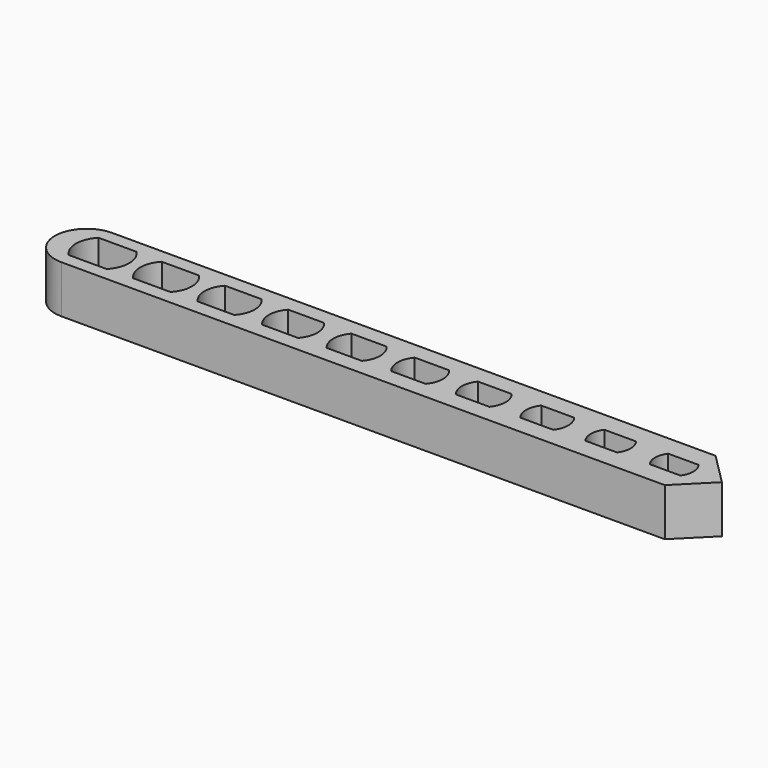
from build123d import *

# Parameters (mm, degrees)
F1_DEPTH = 6


with BuildPart() as f1:
    # F0 (on Top) → F1 (new body)
    with BuildSketch(Plane.XY):
        with BuildLine():
            Line((38, 4), (-38, 4))
            ThreePointArc((-38, 4), (-42, 0), (-38, -4))
            Line((-38, -4), (38, -4))
            Line((38, -4), (42, 0))
            Line((42, 0), (38, 4))
        make_face()
        with BuildLine():
            ThreePointArc((-33.612533, 2.35), (-32.899958, 1.269741), (-32.65, 0))
            ThreePointArc((-32.65, 0), (-32.899958, -1.269741), (-33.612533, -2.35))
            ThreePointArc((-33.612533, -2.35), (-36, -3.35), (-38.387467, -2.35))
            ThreePointArc((-38.387467, -2.35), (-39.35, 0), (-38.387467, 2.35))
            ThreePointArc((-38.387467, 2.35), (-36, 3.35), (-33.612533, 2.35))
        make_face(mode=Mode.SUBTRACT)
        with BuildLine():
            ThreePointArc((-25.654792, 2.25), (-24.98467, 1.212554), (-24.75, 0))
            ThreePointArc((-24.75, 0), (-24.98467, -1.212554), (-25.654792, -2.25))
            ThreePointArc((-25.654792, -2.25), (-28, -3.25), (-30.345208, -2.25))
            ThreePointArc((-30.345208, -2.25), (-31.25, 0), (-30.345208, 2.25))
            ThreePointArc((-30.345208, 2.25), (-28, 3.25), (-25.654792, 2.25))
        make_face(mode=Mode.SUBTRACT)
        with BuildLine():
            ThreePointArc((-17.697827, 2.15), (-17.069612, 1.155564), (-16.85, 0))
            ThreePointArc((-16.85, 0), (-17.069612, -1.155564), (-17.697827, -2.15))
            ThreePointArc((-17.697827, -2.15), (-20, -3.15), (-22.302173, -2.15))
            ThreePointArc((-22.302173, -2.15), (-23.15, 0), (-22.302173, 2.15))
            ThreePointArc((-22.302173, 2.15), (-20, 3.15), (-17.697827, 2.15))
        make_face(mode=Mode.SUBTRACT)
        with BuildLine():
            ThreePointArc((-9.741682, 2.05), (-9.154796, 1.098779), (-8.95, 0))
            ThreePointArc((-8.95, 0), (-9.154796, -1.098779), (-9.741682, -2.05))
            ThreePointArc((-9.741682, -2.05), (-12, -3.05), (-14.258318, -2.05))
            ThreePointArc((-14.258318, -2.05), (-15.05, 0), (-14.258318, 2.05))
            ThreePointArc((-14.258318, 2.05), (-12, 3.05), (-9.741682, 2.05))
        make_face(mode=Mode.SUBTRACT)
        with BuildLine():
            ThreePointArc((-1.786406, 1.95), (-1.240235, 1.042208), (-1.05, 0))
            ThreePointArc((-1.05, 0), (-1.240235, -1.042208), (-1.786406, -1.95))
            ThreePointArc((-1.786406, -1.95), (-4, -2.95), (-6.213594, -1.95))
            ThreePointArc((-6.213594, -1.95), (-6.95, 0), (-6.213594, 1.95))
            ThreePointArc((-6.213594, 1.95), (-4, 2.95), (-1.786406, 1.95))
        make_face(mode=Mode.SUBTRACT)
        with BuildLine():
            ThreePointArc((6.167948, 1.85), (6.674056, 0.985862), (6.85, 0))
            ThreePointArc((6.85, 0), (6.674056, -0.985862), (6.167948, -1.85))
            ThreePointArc((6.167948, -1.85), (4, -2.85), (1.832052, -1.85))
            ThreePointArc((1.832052, -1.85), (1.15, 0), (1.832052, 1.85))
            ThreePointArc((1.832052, 1.85), (4, 2.85), (6.167948, 1.85))
        make_face(mode=Mode.SUBTRACT)
        with BuildLine():
            ThreePointArc((14.12132, 1.75), (14.588062, 0.92975), (14.75, 0))
            ThreePointArc((14.75, 0), (14.588062, -0.92975), (14.12132, -1.75))
            ThreePointArc((14.12132, -1.75), (12, -2.75), (9.87868, -1.75))
            ThreePointArc((9.87868, -1.75), (9.25, 0), (9.87868, 1.75))
            ThreePointArc((9.87868, 1.75), (12, 2.75), (14.12132, 1.75))
        make_face(mode=Mode.SUBTRACT)
        with BuildLine():
            ThreePointArc((22.073644, 1.65), (22.501765, 0.873883), (22.65, 0))
            ThreePointArc((22.65, 0), (22.501765, -0.873883), (22.073644, -1.65))
            ThreePointArc((22.073644, -1.65), (20, -2.65), (17.926356, -1.65))
            ThreePointArc((17.926356, -1.65), (17.35, 0), (17.926356, 1.65))
            ThreePointArc((17.926356, 1.65), (20, 2.65), (22.073644, 1.65))
        make_face(mode=Mode.SUBTRACT)
        with BuildLine():
            ThreePointArc((30, 1.5), (30.371708, 0.790569), (30.5, 0))
            ThreePointArc((30.5, 0), (30.371708, -0.790569), (30, -1.5))
            ThreePointArc((30, -1.5), (28, -2.5), (26, -1.5))
            ThreePointArc((26, -1.5), (25.5, 0), (26, 1.5))
            ThreePointArc((26, 1.5), (28, 2.5), (30, 1.5))
        make_face(mode=Mode.SUBTRACT)
        with BuildLine():
            ThreePointArc((37.922498, 1.445), (38.281188, 0.761714), (38.405, 0))
            ThreePointArc((38.405, 0), (38.281188, -0.761714), (37.922498, -1.445))
            ThreePointArc((37.922498, -1.445), (36, -2.405), (34.077502, -1.445))
            ThreePointArc((34.077502, -1.445), (33.595, 0), (34.077502, 1.445))
            ThreePointArc((34.077502, 1.445), (36, 2.405), (37.922498, 1.445))
        make_face(mode=Mode.SUBTRACT)
        with BuildLine():
            Line((-38.387467, 2.35), (-33.612533, 2.35))
            ThreePointArc((-33.612533, 2.35), (-36, 3.35), (-38.387467, 2.35))
        make_face()
        with BuildLine():
            ThreePointArc((-38.387467, -2.35), (-36, -3.35), (-33.612533, -2.35))
            Line((-33.612533, -2.35), (-38.387467, -2.35))
        make_face()
        with BuildLine():
            Line((-30.345208, 2.25), (-25.654792, 2.25))
            ThreePointArc((-25.654792, 2.25), (-28, 3.25), (-30.345208, 2.25))
        make_face()
        with BuildLine():
            ThreePointArc((-30.345208, -2.25), (-28, -3.25), (-25.654792, -2.25))
            Line((-25.654792, -2.25), (-30.345208, -2.25))
        make_face()
        with BuildLine():
            Line((-22.302173, 2.15), (-17.697827, 2.15))
            ThreePointArc((-17.697827, 2.15), (-20, 3.15), (-22.302173, 2.15))
        make_face()
        with BuildLine():
            ThreePointArc((-22.302173, -2.15), (-20, -3.15), (-17.697827, -2.15))
            Line((-17.697827, -2.15), (-22.302173, -2.15))
        make_face()
        with BuildLine():
            Line((-14.258318, 2.05), (-9.741682, 2.05))
            ThreePointArc((-9.741682, 2.05), (-12, 3.05), (-14.258318, 2.05))
        make_face()
        with BuildLine():
            ThreePointArc((-14.258318, -2.05), (-12, -3.05), (-9.741682, -2.05))
            Line((-9.741682, -2.05), (-14.258318, -2.05))
        make_face()
        with BuildLine():
            Line((-6.213594, 1.95), (-1.786406, 1.95))
            ThreePointArc((-1.786406, 1.95), (-4, 2.95), (-6.213594, 1.95))
        make_face()
        with BuildLine():
            ThreePointArc((-6.213594, -1.95), (-4, -2.95), (-1.786406, -1.95))
            Line((-1.786406, -1.95), (-6.213594, -1.95))
        make_face()
        with BuildLine():
            Line((1.832052, 1.85), (6.167948, 1.85))
            ThreePointArc((6.167948, 1.85), (4, 2.85), (1.832052, 1.85))
        make_face()
        with BuildLine():
            ThreePointArc((1.832052, -1.85), (4, -2.85), (6.167948, -1.85))
            Line((6.167948, -1.85), (1.832052, -1.85))
        make_face()
        with BuildLine():
            Line((9.87868, 1.75), (14.12132, 1.75))
            ThreePointArc((14.12132, 1.75), (12, 2.75), (9.87868, 1.75))
        make_face()
        with BuildLine():
            ThreePointArc((9.87868, -1.75), (12, -2.75), (14.12132, -1.75))
            Line((14.12132, -1.75), (9.87868, -1.75))
        make_face()
        with BuildLine():
            Line((17.926356, 1.65), (22.073644, 1.65))
            ThreePointArc((22.073644, 1.65), (20, 2.65), (17.926356, 1.65))
        make_face()
        with BuildLine():
            ThreePointArc((17.926356, -1.65), (20, -2.65), (22.073644, -1.65))
            Line((22.073644, -1.65), (17.926356, -1.65))
        make_face()
        with BuildLine():
            Line((26, 1.5), (30, 1.5))
            ThreePointArc((30, 1.5), (28, 2.5), (26, 1.5))
        make_face()
        with BuildLine():
            ThreePointArc((26, -1.5), (28, -2.5), (30, -1.5))
            Line((30, -1.5), (26, -1.5))
        make_face()
        with BuildLine():
            Line((34.077502, 1.445), (37.922498, 1.445))
            ThreePointArc((37.922498, 1.445), (36, 2.405), (34.077502, 1.445))
        make_face()
        with BuildLine():
            ThreePointArc((34.077502, -1.445), (36, -2.405), (37.922498, -1.445))
            Line((37.922498, -1.445), (34.077502, -1.445))
        make_face()
    extrude(amount=F1_DEPTH)


solid = f1.part
